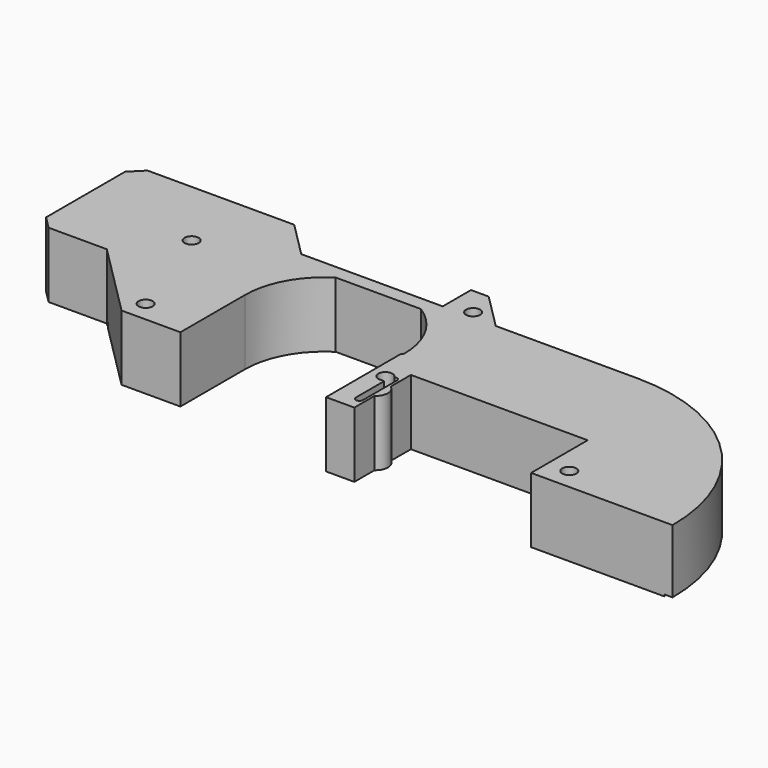
from build123d import *

# Parameters (mm, degrees)
SKETCH_R        = 2
PAD_DEPTH       = 18.5
POCKET_DEPTH    = 1.25
POCKET001_DEPTH = 12
SKETCH005_W     = 32
SKETCH005_H     = 8
POCKET002_DEPTH = 15
POCKET003_DEPTH = 0.5


with BuildPart() as part:
    # Sketch → Pad (new body)
    with BuildSketch(Plane.XY):
        with BuildLine():
            Line((0, 20), (50, 20))
            Line((50, 20), (50, 0))
            Line((50, 0), (90, 0))
            ThreePointArc((90, 0), (75.3553391883, 35.3553389303), (40.0000003648, 50))
            Line((0, 50), (40.0000003648, 50))
            Line((-10, 60), (0, 50))
            Line((-15, 60), (-10, 60))
            Line((-15, 50), (-15, 60))
            Line((-55, 50), (-15, 50))
            Line((-65, 60), (-55, 50))
            Line((-106.4644660941, 60), (-65, 60))
            Line((-110, 56.4644660941), (-106.4644660941, 60))
            Line((-110, 28.5355339059), (-110, 56.4644660941))
            Line((-106.4644660941, 25), (-110, 28.5355339059))
            Line((-90, 25), (-106.4644660941, 25))
            Line((-69.14, 4.14), (-90, 25))
            Line((-52.5, 4.14), (-69.14, 4.14))
            Line((-52.5, 4.14), (-52.5, 27.0000073596))
            ThreePointArc((-42.0519707932, 46), (-49.7157196548, 37.8416049777), (-52.5, 27.0000073596))
            Line((-42.0519707932, 46), (-17.9480292068, 46))
            ThreePointArc((-7.5, 27), (-10.2842785721, 37.8416017533), (-17.9480292068, 46))
            Line((-7.5, 27), (-8, 26.5))
            Line((-8, 26.5), (-8, 0))
            Line((0, 0), (-8, 0))
            Line((0, 0), (0, 7.1277186767))
            ThreePointArc((0, 7.1277186767), (1.5, 10), (0, 12.8722813233))
            Line((0, 20), (0, 12.8722813233))
        make_face()
        with Locations((56, 6)):
            Circle(SKETCH_R, mode=Mode.SUBTRACT)
        with Locations((-8, 52)):
            Circle(SKETCH_R, mode=Mode.SUBTRACT)
        with Locations((-67, 10)):
            Circle(SKETCH_R, mode=Mode.SUBTRACT)
        with Locations((-78, 40)):
            Circle(SKETCH_R, mode=Mode.SUBTRACT)
        with BuildLine():
            ThreePointArc((-2.2083333333, 16.8887803753), (-5.6996412833, 17.0541439694), (-3.9999998699, 14))
            Line((-3.9999998699, 14), (-2.75, 14))
            Line((-2.75, 14), (-2.75, 4))
            ThreePointArc((-2.75, 4), (-1.75, 3), (-0.75, 4))
            Line((-0.75, 16), (-0.75, 4))
            ThreePointArc((-0.75, 16), (-1.2295835001, 16.8539125638), (-2.2083333333, 16.8887803753))
        make_face(mode=Mode.SUBTRACT)
    extrude(amount=PAD_DEPTH)

    # SubtractivePipe: sweep along a path in Sketch001
    with BuildLine(Plane.XY.offset(18.5)) as subtractivepipe_path:
        Line((-72.9307178569, 0), (-58.9653554732, 13.9653623837))
        ThreePointArc((-58.9653554732, 13.9653623837), (-52.5579955482, 18.2466216954), (-45.0000000351, 19.75))
        Line((-45.0000000351, 19.75), (39.9999998281, 19.75))
        ThreePointArc((39.9999998281, 19.75), (53.9653588677, 13.9653589892), (59.75, 0))
    # Sketch002 (on DatumPlane) → SubtractivePipe (sweep, cut)
    with BuildSketch(Plane(origin=(-32.5, -32.5, 0), x_dir=(0.7071067812, -0.7071067812, 0), z_dir=(-0.7071067812, -0.7071067812, 0))):
        Polygon((-80, -18.75), (-70, -18.75), (-70, -0.25), (-78.75, -0.25), (-78.75, 1.25), (-80, 1.25), align=None)
    sweep(path=subtractivepipe_path.line, mode=Mode.SUBTRACT)

    # Sketch003 → Pocket (cut)
    with BuildSketch(Plane.XY):
        Polygon((0, 50), (2, 48), (10, 48), (10, 50), align=None)
    extrude(amount=POCKET_DEPTH, mode=Mode.SUBTRACT)

    # Sketch004 → Pocket001 (cut)
    with BuildSketch(Plane.XY):
        Polygon((-96.5, 60), (-96.5, 50.5), (-96.375, 50.5), (-96.375, 33), (-83.625, 33), (-83.625, 50.5), (-83.5, 50.5), (-83.5, 60), align=None)
    extrude(amount=POCKET001_DEPTH, mode=Mode.SUBTRACT)

    # Sketch005 → Pocket002 (cut)
    with BuildSketch(Plane.XY):
        with Locations((-90, 47)):
            Rectangle(SKETCH005_W, SKETCH005_H)
    extrude(amount=POCKET002_DEPTH, mode=Mode.SUBTRACT)

    # Sketch006 → Pocket003 (cut)
    with BuildSketch(Plane.XY):
        with BuildLine():
            ThreePointArc((87.7395276474, -1), (74.1160702602, 33.4089247058), (40, 47.75))
            Line((40, 47.75), (9.5, 47.75))
            Line((9.5, 47.75), (9.5, 50.25))
            Line((9.5, 50.25), (39.9999271709, 50.25))
            ThreePointArc((90.2400487659, -1), (75.8839019692, 35.1768116729), (39.9999271709, 50.2499999999))
            Line((87.7395276474, -1), (90.2400487659, -1))
        make_face()
    extrude(amount=POCKET003_DEPTH, mode=Mode.SUBTRACT)


solid = part.part
